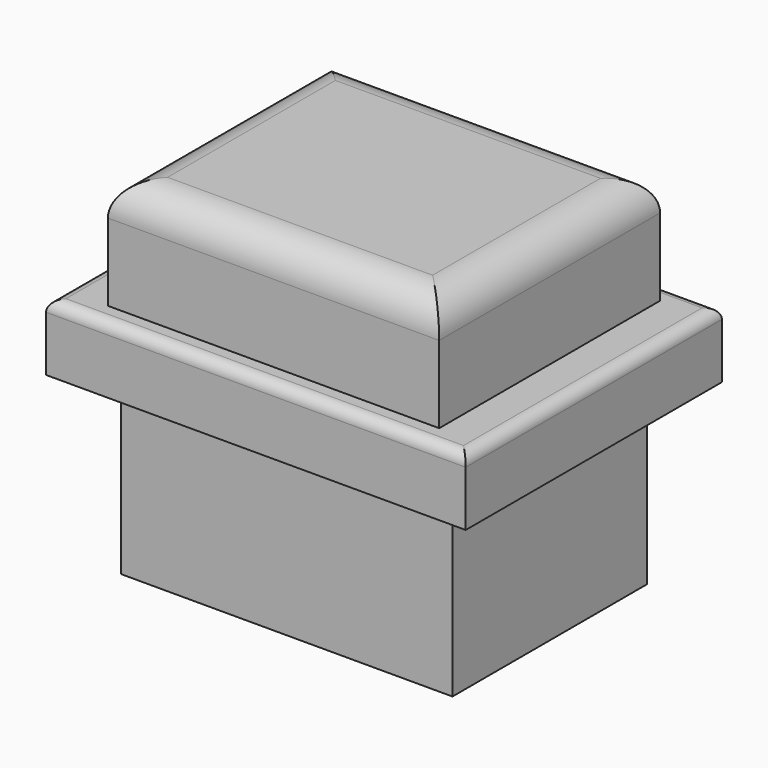
from build123d import *

# Parameters (mm, degrees)
F0_W     = 30
F0_H     = 22
F1_DEPTH = 16
F2_W     = 38
F2_H     = 29
F2_W_2   = 30
F2_H_2   = 22
F3_DEPTH = 6
F4_R     = 1
F5_W     = 30
F5_H     = 10
F6_DEPTH = 12.5
F7_R     = 3


with BuildPart() as f1:
    # F0 (on Top) → F1 (new body)
    with BuildSketch(Plane.XY):
        Rectangle(F0_W, F0_H)
    extrude(amount=F1_DEPTH)

    # F2 (on face) → F3 (join)
    with BuildSketch(Plane.XY.offset(16)):
        Rectangle(F2_W, F2_H)
        Rectangle(F2_W_2, F2_H_2, mode=Mode.SUBTRACT)
        Rectangle(F2_W_2, F2_H_2)
    extrude(amount=F3_DEPTH)

    # F4
    f4_edges = [f1.edges().sort_by_distance(p)[0] for p in [
        (19, 0, 22),
        (0, 14.5, 22),
        (-19, 0, 22),
        (0, -14.5, 22),
    ]]
    fillet(f4_edges, radius=F4_R)

    # F5 (on Front) → F6 (join, symmetric)
    with BuildSketch(Plane.XZ):
        with Locations((0, 27)):
            Rectangle(F5_W, F5_H)
    extrude(amount=F6_DEPTH, both=True)

    # F7
    f7_edges = [f1.edges().sort_by_distance(p)[0] for p in [
        (0, 12.5, 32),
        (-15, 0, 32),
        (0, -12.5, 32),
        (15, 0, 32),
    ]]
    fillet(f7_edges, radius=F7_R)


solid = f1.part
